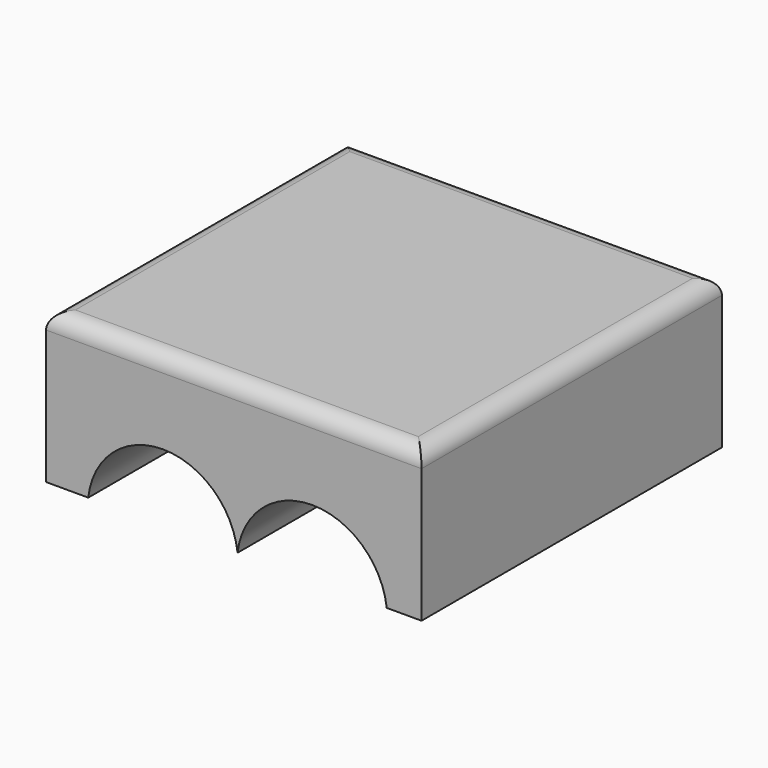
from build123d import *

# Parameters (mm, degrees)
F1_DEPTH = 127
F2_R     = 5.518892


with BuildPart() as f1:
    # F0 (on Front) → F1 (new body)
    with BuildSketch(Plane.XZ):
        with BuildLine():
            Line((62.236424, 50.8), (-64.763576, 50.8))
            Line((-64.763576, 50.8), (-64.763576, 0))
            Line((-64.763576, 0), (-50.493699, 0))
            ThreePointArc((-50.493699, 0), (-25.246849, 22.614934), (0, 0))
            ThreePointArc((0, 0), (25.229008, 22.457695), (50.458016, 0))
            Line((50.458016, 0), (62.236424, 0))
            Line((62.236424, 0), (62.236424, 50.8))
        make_face()
    extrude(amount=F1_DEPTH)

    # F2
    f2_edges = [f1.edges().sort_by_distance(p)[0] for p in [
        (-1.263576, 0, 50.8),
        (-64.763576, -63.5, 50.8),
        (-1.263576, -127, 50.8),
        (62.236424, -63.5, 50.8),
    ]]
    fillet(f2_edges, radius=F2_R)


solid = f1.part
